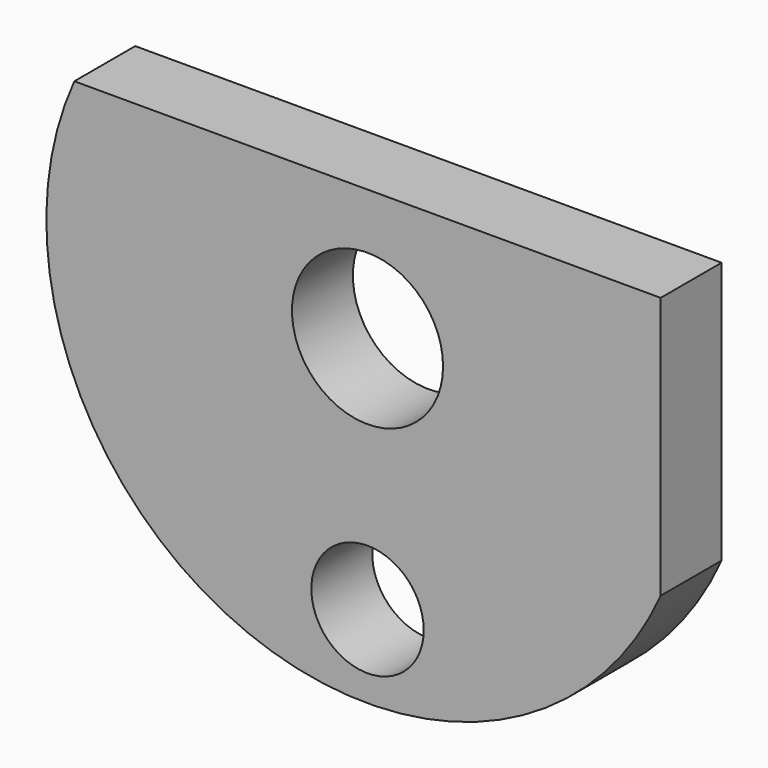
from build123d import *

# Parameters (mm, degrees)
F0_R     = 1.1811
F0_R_2   = 1.5875
F1_DEPTH = 0.8001


with BuildPart() as f1:
    # F0 (on Front) → F1 (new body, symmetric)
    with BuildSketch(Plane.XZ):
        with BuildLine():
            Line((5.280381, 3.991776), (-7.04344, 3.991776))
            ThreePointArc((-7.04344, 3.991776), (-3.637121, -4.925726), (5.280381, -1.519407))
            Line((5.280381, -1.519407), (5.280381, 3.991776))
        make_face()
        with Locations((-0.881529, -3.777536)):
            Circle(F0_R, mode=Mode.SUBTRACT)
        with Locations((-0.881529, 1.236185)):
            Circle(F0_R_2, mode=Mode.SUBTRACT)
    extrude(amount=F1_DEPTH, both=True)


solid = f1.part
